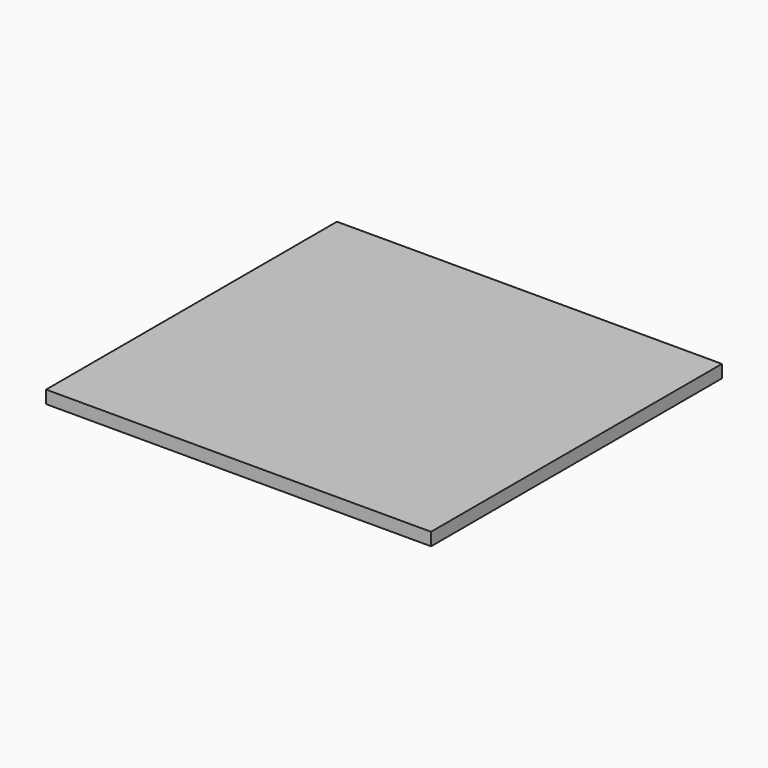
from build123d import *

# Parameters (mm, degrees)
SKETCH_W  = 90
SKETCH_H  = 85
PAD_DEPTH = 3


with BuildPart() as part:
    # Sketch → Pad (new body)
    with BuildSketch(Plane.XY):
        Rectangle(SKETCH_W, SKETCH_H)
    extrude(amount=PAD_DEPTH)


solid = part.part
